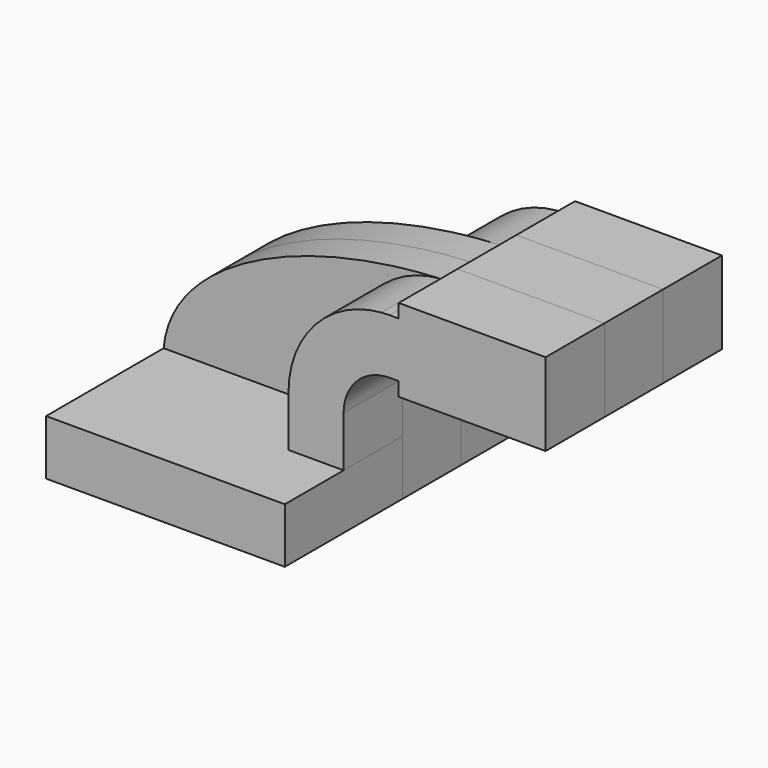
from build123d import *

# Parameters (mm, degrees)
F1_DEPTH = 38.1
F2_DEPTH = 63.5
F3_DEPTH = 12.7


with BuildPart() as f1:
    # F0 (on Front) → F1 (new body, symmetric)
    with BuildSketch(Plane.XZ):
        with BuildLine():
            Line((22.225, 9.525), (41.275, 9.525))
            Line((41.275, 9.525), (41.275, 27.0002))
            ThreePointArc((41.275, 27.0002), (45.92468, 38.22552), (57.15, 42.8752))
            Line((57.15, 42.8752), (60.325, 42.8752))
            Line((60.325, 42.8752), (60.325, 61.9252))
            Line((60.325, 61.9252), (57.15, 61.9252))
            add(Edge.make_bspline(
                [(54.314037, 61.809867), (55.257179, 61.855034), (56.202579, 61.893502), (57.15, 61.9252)],
                knots=[109.42562, 109.42562, 109.42562, 109.42562, 111.504536, 111.504536, 111.504536, 111.504536], degree=3))
            ThreePointArc((54.314037, 61.809867), (31.471199, 50.672015), (22.225, 27.0002))
            Line((22.225, 27.0002), (22.225, 9.525))
        make_face()
        Polygon((85.535526, 66.675), (85.567021, 61.9252), (85.725, 38.1), (111.125, 38.1), (111.125, 66.675), align=None)
        Polygon((60.325, 66.675), (60.325, 61.9252), (85.567021, 61.9252), (85.535526, 66.675), align=None)
        Polygon((60.325, 61.9252), (60.325, 42.8752), (60.325, 38.1), (85.725, 38.1), (85.567021, 61.9252), align=None)
    extrude(amount=F1_DEPTH, both=True)


with BuildPart() as f2:
    # F0 (on Front) → F2 (new body, symmetric)
    with BuildSketch(Plane.XZ):
        Polygon((-41.275, -9.525), (41.275, -9.525), (41.275, 9.525), (22.225, 9.525), (-41.275, 9.525), align=None)
    extrude(amount=F2_DEPTH, both=True)


with BuildPart() as f3:
    # F0 (on Front) → F3 (new body, symmetric)
    with BuildSketch(Plane.XZ):
        Polygon((-41.275, -9.525), (41.275, -9.525), (41.275, 9.525), (22.225, 9.525), (-41.275, 9.525), align=None)
        with BuildLine():
            Line((22.225, 9.525), (41.275, 9.525))
            Line((41.275, 9.525), (41.275, 27.0002))
            ThreePointArc((41.275, 27.0002), (45.92468, 38.22552), (57.15, 42.8752))
            Line((57.15, 42.8752), (60.325, 42.8752))
            Line((60.325, 42.8752), (60.325, 61.9252))
            Line((60.325, 61.9252), (57.15, 61.9252))
            add(Edge.make_bspline(
                [(54.314037, 61.809867), (55.257179, 61.855034), (56.202579, 61.893502), (57.15, 61.9252)],
                knots=[109.42562, 109.42562, 109.42562, 109.42562, 111.504536, 111.504536, 111.504536, 111.504536], degree=3))
            ThreePointArc((54.314037, 61.809867), (31.471199, 50.672015), (22.225, 27.0002))
            Line((22.225, 27.0002), (22.225, 9.525))
        make_face()
        with BuildLine():
            add(Edge.make_bspline(
                [(-41.275, 9.525), (-38.717687, 38.496606), (4.670877, 59.432472), (54.314037, 61.809867)],
                knots=[0, 0, 0, 0, 109.42562, 109.42562, 109.42562, 109.42562], degree=3))
            Line((-41.275, 9.525), (22.225, 9.525))
            Line((22.225, 9.525), (22.225, 27.0002))
            ThreePointArc((22.225, 27.0002), (31.471199, 50.672015), (54.314037, 61.809867))
        make_face()
        with BuildLine():
            ThreePointArc((57.15, 61.9252), (55.730846, 61.896355), (54.314037, 61.809867))
            add(Edge.make_bspline(
                [(54.314037, 61.809867), (55.257179, 61.855034), (56.202579, 61.893502), (57.15, 61.9252)],
                knots=[109.42562, 109.42562, 109.42562, 109.42562, 111.504536, 111.504536, 111.504536, 111.504536], degree=3))
        make_face()
        Polygon((60.325, 61.9252), (60.325, 42.8752), (60.325, 38.1), (85.725, 38.1), (85.567021, 61.9252), align=None)
        Polygon((60.325, 66.675), (60.325, 61.9252), (85.567021, 61.9252), (85.535526, 66.675), align=None)
        Polygon((85.535526, 66.675), (85.567021, 61.9252), (85.725, 38.1), (111.125, 38.1), (111.125, 66.675), align=None)
    extrude(amount=F3_DEPTH, both=True)


solid = Compound([f1.part, f2.part, f3.part])
